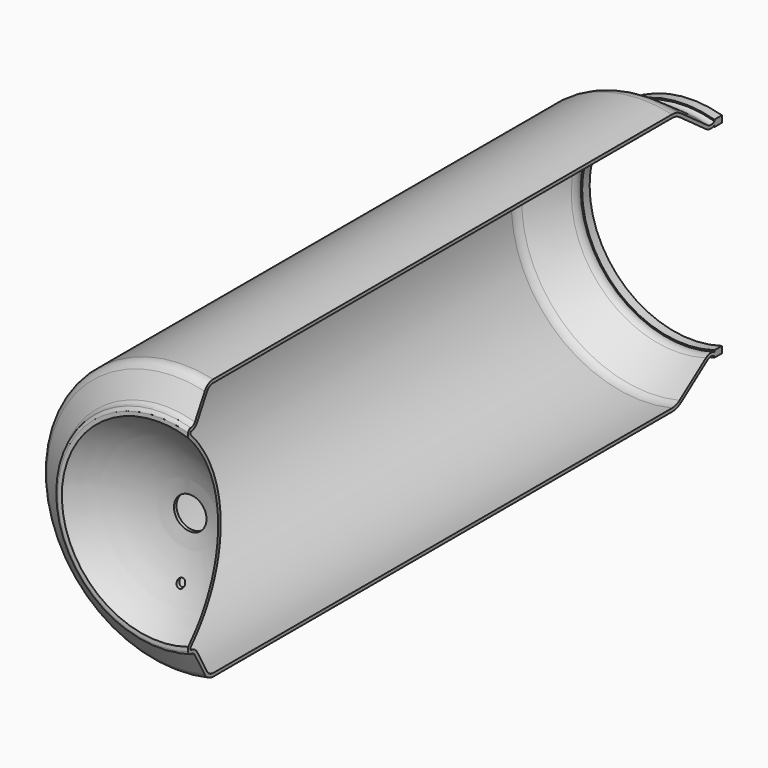
from build123d import *

# Parameters (mm, degrees)
SKETCH010_R     = 4
SKETCH010_R_2   = 1
POCKET002_DEPTH = 11
SKETCH011_W     = 31.964898
SKETCH011_H     = 190.037925
POCKET003_DEPTH = 33


with BuildPart() as part:
    # Sketch009 → Revolution001 (revolve)
    with BuildSketch(Plane.YZ):
        with BuildLine():
            Line((164, 25.22), (164, 26.78))
            Line((161.7, 26.78), (164, 26.78))
            Line((161.7, 26.78), (161.7, 26.445752))
            ThreePointArc((159.55, 26.445752), (160.625, 26.106806), (161.7, 26.445752))
            Line((159.55, 26.445752), (151.420572, 32.138039))
            ThreePointArc((151.420572, 32.138039), (150.120011, 32.779405), (148.686781, 33))
            Line((148.686781, 33), (7.686781, 33))
            ThreePointArc((7.686781, 33), (6.186781, 32.598076), (5.088705, 31.5))
            Line((5.088705, 31.5), (2.079038, 26.287104))
            ThreePointArc((0.78, 25.537104), (1.53, 25.738066), (2.079038, 26.287104))
            ThreePointArc((0.78, 25.537104), (0.228457, 25.308647), (0, 24.757104))
            Line((0, 24.757104), (0, 23.757104))
            ThreePointArc((10, 0), (7.398106, 12.887979), (0, 23.757104))
            Line((10, 0), (10.78, 0))
            ThreePointArc((10.78, 0), (8.180637, 13.038405), (0.78, 24.083189))
            Line((0.78, 24.757104), (0.78, 24.083189))
            ThreePointArc((0.78, 24.757104), (1.92, 25.062566), (2.754538, 25.897104))
            Line((5.764205, 31.11), (2.754538, 25.897104))
            ThreePointArc((7.686781, 32.22), (6.576781, 31.922576), (5.764205, 31.11))
            Line((148.686781, 32.22), (7.686781, 32.22))
            ThreePointArc((150.973182, 31.499101), (149.88546, 32.035506), (148.686781, 32.22))
            Line((159.10261, 25.806814), (150.973182, 31.499101))
            ThreePointArc((159.10261, 25.806814), (160.368121, 25.339266), (161.7, 25.554248))
            Line((161.7, 25.554248), (161.7, 25.22))
            Line((164, 25.22), (161.7, 25.22))
        make_face()
    revolve(axis=Axis((0, 0, 0), (0, 1, 0)))

    # Sketch010 (on Face15 of Revolution001) → Pocket002 (cut)
    with BuildSketch(Plane(origin=(0, 0, 0), x_dir=(0, 0, -1), z_dir=(0, -1, 0))):
        Circle(SKETCH010_R)
        with Locations((14, 0)):
            Circle(SKETCH010_R_2)
    extrude(amount=-POCKET002_DEPTH, mode=Mode.SUBTRACT)

    # Sketch011 → Pocket003 (cut, symmetric)
    with BuildSketch(Plane.XY):
        with Locations((23.284458, 74.299579)):
            Rectangle(SKETCH011_W, SKETCH011_H)
    extrude(amount=POCKET003_DEPTH, both=True, mode=Mode.SUBTRACT)


solid = part.part
